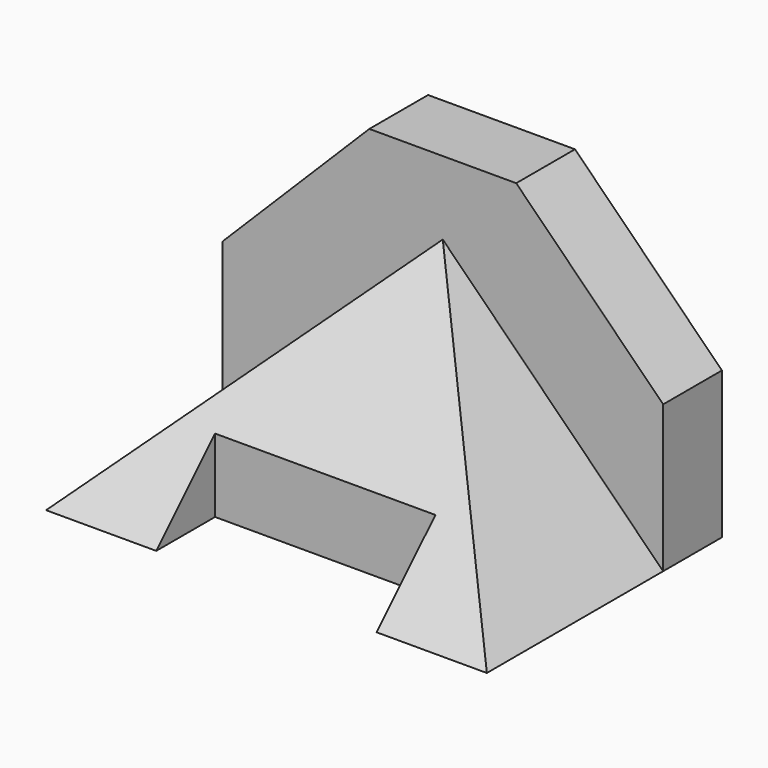
from build123d import *

# Parameters (mm, degrees)
F1_DEPTH = 50.8
F3_DEPTH = 38.1
F5_DEPTH = 76.2
F2_W     = 38.1
F2_H     = 12.7
F6_DEPTH = 12.7


with BuildPart() as f1:
    # F0 (on Front) → F1 (new body)
    with BuildSketch(Plane.XZ):
        Polygon((0, 25.4), (0, 0), (76.2, 0), (76.2, 25.4), (50.8, 50.8), (25.4, 50.8), align=None)
    extrude(amount=F1_DEPTH)

    # F2 (on face) → F3 (cut)
    with BuildSketch(Plane.XZ.offset(50.8)):
        Polygon((0, 25.4), (0, 0), (38.1, 38.1), (76.2, 0), (76.2, 25.4), (50.8, 50.8), (25.4, 50.8), align=None)
    extrude(amount=-F3_DEPTH, mode=Mode.SUBTRACT)

    # F4 (on face) → F5 (cut)
    with BuildSketch(Plane.YZ.offset(76.2)):
        Polygon((-50.8, 38.1), (-50.8, 0), (-12.7, 38.1), align=None)
    extrude(amount=-F5_DEPTH, mode=Mode.SUBTRACT)

    # F2 (on face) → F6 (cut)
    with BuildSketch(Plane.XZ.offset(50.8)):
        with Locations((38.1, 6.35)):
            Rectangle(F2_W, F2_H)
    extrude(amount=-F6_DEPTH, mode=Mode.SUBTRACT)


solid = f1.part
